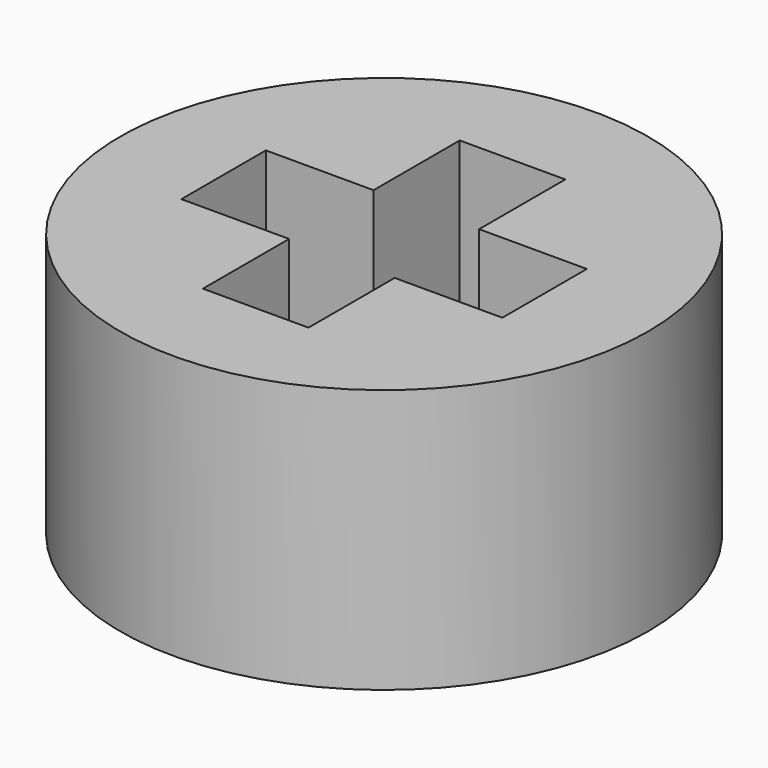
from build123d import *

# Parameters (mm, degrees)
F0_R     = 3.96875
F1_DEPTH = 3.96875


with BuildPart() as f1:
    # F0 (on Top) → F1 (new body)
    with BuildSketch(Plane.XY):
        Circle(F0_R)
        Polygon((0.79375, -0.79375), (0.79375, -2.413), (-0.79375, -2.413), (-0.79375, -0.79375), (-2.413, -0.79375), (-2.413, 0.79375), (-0.79375, 0.79375), (-0.79375, 2.413), (0.79375, 2.413), (0.79375, 0.79375), (2.413, 0.79375), (2.413, -0.79375), align=None, mode=Mode.SUBTRACT)
    extrude(amount=F1_DEPTH)


solid = f1.part
